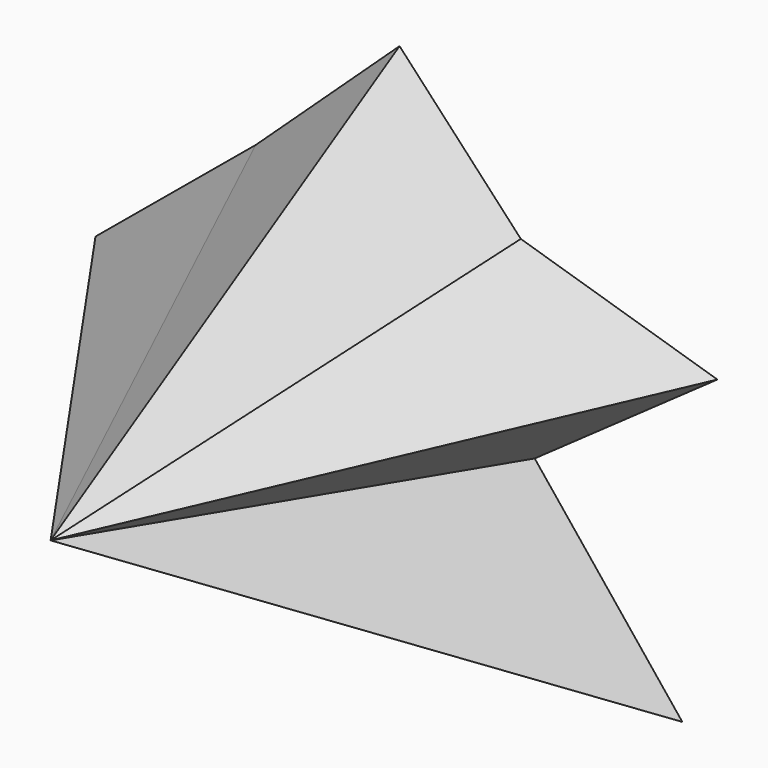
from build123d import *


with BuildPart() as f3:
    # F0 (on Front) → F3 section 0
    with BuildSketch(Plane.XZ, mode=Mode.PRIVATE) as f3_s0:
        Polygon((0, 54.938529), (-32.991804, 24.241803), (-69.713116, -6.168033), (-25.819672, -22.807376), (-49.344264, -59.815578), (5.163935, -46.331968), (64.83607, -60.389347), (30.983604, -18.217213), (72.868854, 11.331968), (27.801723, 25.058175), align=None)
    loft([f3_s0.sketch, Vertex(0, -100, -4.188326)])


solid = f3.part
